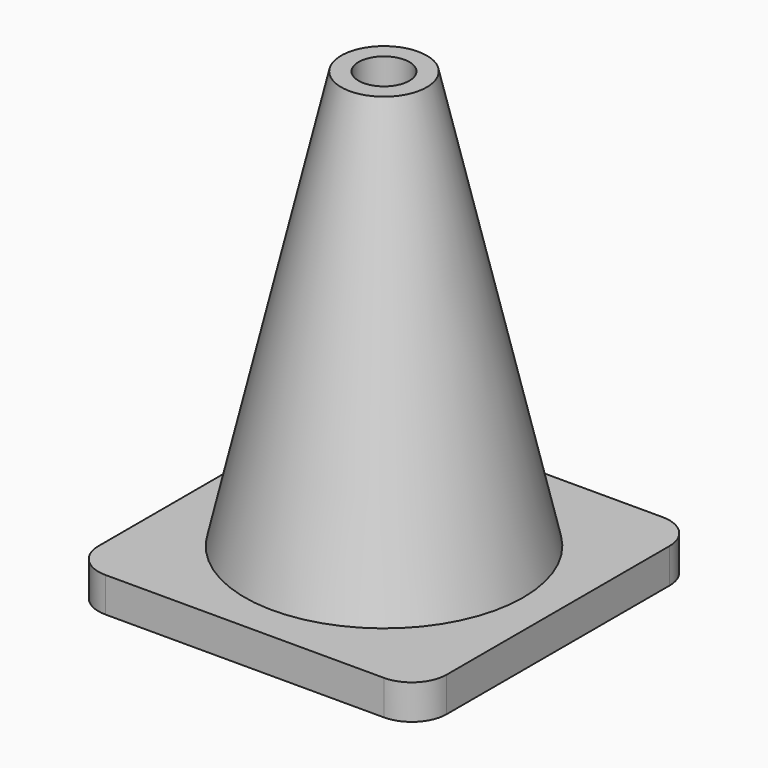
from build123d import *

# Parameters (mm, degrees)
F1_DEPTH = 1
F2_R     = 4
F3_DEPTH = 12
F3_TAPER = 13
F4_R     = 0.7295817065
F5_DEPTH = 5


with BuildPart() as f1:
    # F0 (on Top) → F1 (new body)
    with BuildSketch(Plane.XY):
        with BuildLine():
            ThreePointArc((0, 1), (0.2928932188, 0.2928932188), (1, 0))
            Line((1, 0), (9, 0))
            ThreePointArc((9, 0), (9.7071067812, 0.2928932188), (10, 1))
            Line((10, 1), (10, 9))
            ThreePointArc((10, 9), (9.7071067812, 9.7071067812), (9, 10))
            Line((9, 10), (1, 10))
            ThreePointArc((1, 10), (0.2928932188, 9.7071067812), (0, 9))
            Line((0, 9), (0, 1))
        make_face()
    extrude(amount=F1_DEPTH)

    # F2 (on face) → F3 (join)
    with BuildSketch(Plane.XY.offset(1)):
        with Locations((5, 5)):
            Circle(F2_R)
    extrude(amount=F3_DEPTH, taper=F3_TAPER)

    # F4 (on face) → F5 (cut)
    with BuildSketch(Plane.XY.offset(13)):
        with Locations((5, 5)):
            Circle(F4_R)
    extrude(amount=-F5_DEPTH, mode=Mode.SUBTRACT)


solid = f1.part
